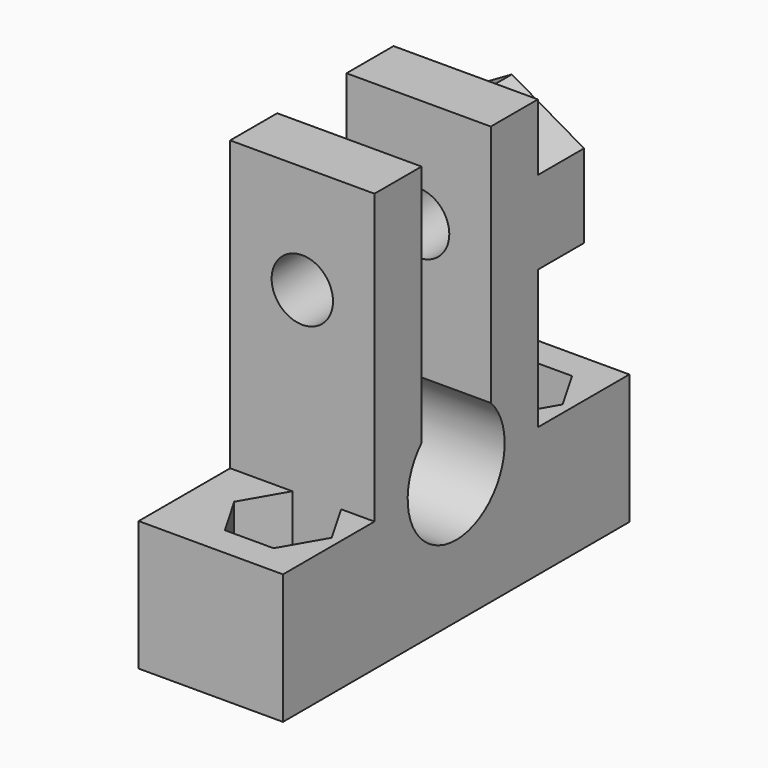
from build123d import *

# Parameters (mm, degrees)
F0_W      = 10
F0_H      = 30
F0_R      = 2.125
F1_DEPTH  = 5
F2_W      = 10
F2_H      = 30
F3_DEPTH  = 4
F4_W      = 10
F4_H      = 14.15
F5_DEPTH  = 20
F7_DEPTH  = 10.001
F8_R      = 2.125
F9_DEPTH  = 22.076
F11_DEPTH = 4


with BuildPart() as f1:
    # F0 (on Top) → F1 (new body)
    with BuildSketch(Plane.XY):
        Rectangle(F0_W, F0_H)
        with Locations((1, -10)):
            Circle(F0_R, mode=Mode.SUBTRACT)
        with Locations((1, 10)):
            Circle(F0_R, mode=Mode.SUBTRACT)
    extrude(amount=F1_DEPTH)

    # F2 (on face) → F3 (join)
    with BuildSketch(Plane.XY.offset(5)):
        Rectangle(F2_W, F2_H)
        Polygon((-0.68875, -7.075), (2.68875, -7.075), (4.377499, -10), (2.68875, -12.925), (-0.68875, -12.925), (-2.377499, -10), align=None, mode=Mode.SUBTRACT)
        Polygon((4.377499, 10), (2.68875, 7.075), (-0.68875, 7.075), (-2.377499, 10), (-0.68875, 12.925), (2.68875, 12.925), align=None, mode=Mode.SUBTRACT)
    extrude(amount=F3_DEPTH)

    # F4 (on face) → F5 (join)
    with BuildSketch(Plane.XY.offset(9)):
        Rectangle(F4_W, F4_H)
    extrude(amount=F5_DEPTH)

    # F6 (on face) → F7 (cut, through all)
    with BuildSketch(Plane.YZ.offset(5)):
        with BuildLine():
            ThreePointArc((-3, 12.139388), (0, 5), (3, 12.139388))
            Line((3, 12.139388), (3, 29))
            Line((3, 29), (-3, 29))
            Line((-3, 29), (-3, 12.139388))
        make_face()
    extrude(amount=-F7_DEPTH, mode=Mode.SUBTRACT)

    # F8 (on face) → F9 (cut, through all)
    with BuildSketch(Plane.XZ.offset(7.075)):
        with Locations((0, 21.5)):
            Circle(F8_R)
    extrude(amount=-F9_DEPTH, mode=Mode.SUBTRACT)

    # F10 (on face) → F11 (join)
    with BuildSketch(Plane(origin=(0, 7.075, 0), x_dir=(-1, 0, 0), z_dir=(0, 1, 0))):
        Polygon((5, 18.613249), (5, 24.386751), (0, 27.273503), (-5, 24.386751), (-5, 18.613249), (0, 15.726497), align=None)
        Polygon((0, 24.877499), (2.925, 23.18875), (2.925, 19.81125), (0, 18.122501), (-2.925, 19.81125), (-2.925, 23.18875), align=None, mode=Mode.SUBTRACT)
    extrude(amount=F11_DEPTH)


solid = f1.part
